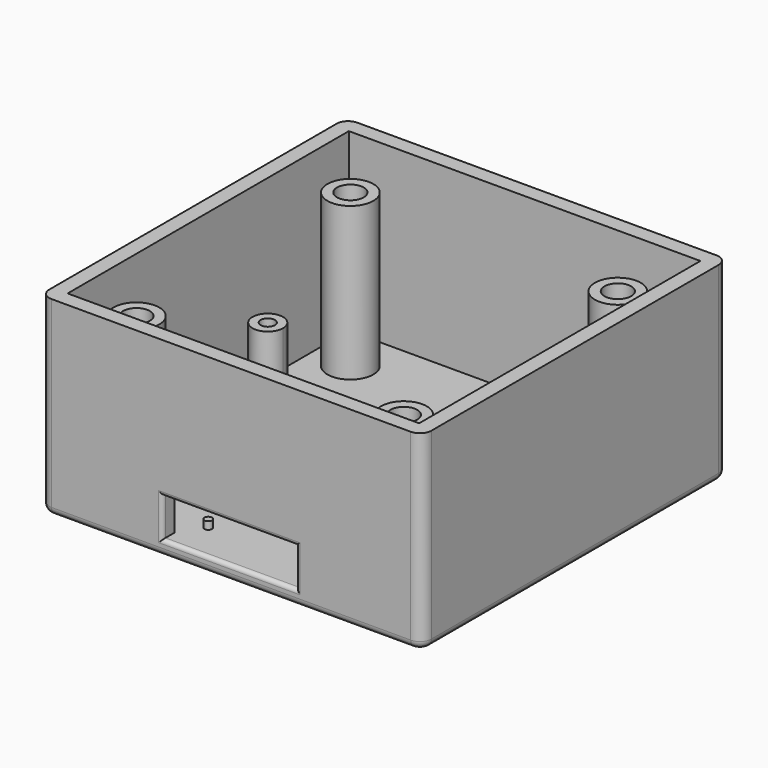
from build123d import *

# Parameters (mm, degrees)
CYLINDER016_R     = 1.75
CYLINDER016_DEPTH = 22
CYLINDER017_R     = 3
CYLINDER017_DEPTH = 22
CYLINDER015_R     = 1.75
CYLINDER015_DEPTH = 22
CYLINDER014_R     = 3
CYLINDER014_DEPTH = 22
CYLINDER013_R     = 1.75
CYLINDER013_DEPTH = 22
CYLINDER012_R     = 3
CYLINDER012_DEPTH = 22
CYLINDER011_R     = 1.75
CYLINDER011_DEPTH = 22
CYLINDER010_R     = 3
CYLINDER010_DEPTH = 22
CYLINDER009_R     = 0.5
CYLINDER009_DEPTH = 2
CYLINDER008_R     = 0.5
CYLINDER008_DEPTH = 2
BOX002_W          = 17.5
BOX002_H          = 10
BOX002_DEPTH      = 5
CYLINDER006_R     = 0.93
CYLINDER006_DEPTH = 10
CYLINDER007_R     = 2
CYLINDER007_DEPTH = 10
CYLINDER005_R     = 0.93
CYLINDER005_DEPTH = 10
CYLINDER004_R     = 2
CYLINDER004_DEPTH = 10
CYLINDER003_R     = 0.93
CYLINDER003_DEPTH = 10
CYLINDER002_R     = 2
CYLINDER002_DEPTH = 10
CYLINDER001_R     = 0.93
CYLINDER001_DEPTH = 10
CYLINDER_R        = 2
CYLINDER_DEPTH    = 10
BOX001_W          = 46
BOX001_H          = 46
BOX001_DEPTH      = 25
BOX_W             = 50
BOX_H             = 50
BOX_DEPTH         = 25
FILLET_R          = 1.5
FILLET001_R       = 1
FILLET002_R       = 0.5


with BuildPart() as cylinder008:
    # Cylinder016 → Cylinder016 (new body)
    with BuildSketch(Plane.XY):
        Circle(CYLINDER016_R)
    extrude(amount=CYLINDER016_DEPTH)


with BuildPart() as cut008:
    # Cylinder017 → Cylinder017 (new body)
    with BuildSketch(Plane.XY):
        Circle(CYLINDER017_R)
    extrude(amount=CYLINDER017_DEPTH)

    # Cut008: cut Cylinder008
    add(cylinder008.part, mode=Mode.SUBTRACT)


with BuildPart() as cut008_1:
    # Cut008 placement: moved
    add(cut008.part.moved(Location((41, 35, 0))))


with BuildPart() as cylinder007:
    # Cylinder015 → Cylinder015 (new body)
    with BuildSketch(Plane.XY):
        Circle(CYLINDER015_R)
    extrude(amount=CYLINDER015_DEPTH)


with BuildPart() as fusion007:
    # Cylinder014 → Cylinder014 (new body)
    with BuildSketch(Plane.XY):
        Circle(CYLINDER014_R)
    extrude(amount=CYLINDER014_DEPTH)

    # Cut009: cut Cylinder007
    add(cylinder007.part, mode=Mode.SUBTRACT)


with BuildPart() as fusion007_1:
    # Cut009 placement: moved
    add(fusion007.part.moved(Location((6, 35, 0))))

    # Fusion007: union Cut008
    add(cut008_1.part)


with BuildPart() as fusion007_2:
    # Fusion007 placement: moved
    add(fusion007_1.part.moved(Location((0, -35, 0))))


with BuildPart() as cylinder005:
    # Cylinder013 → Cylinder013 (new body)
    with BuildSketch(Plane.XY):
        Circle(CYLINDER013_R)
    extrude(amount=CYLINDER013_DEPTH)


with BuildPart() as cut007:
    # Cylinder012 → Cylinder012 (new body)
    with BuildSketch(Plane.XY):
        Circle(CYLINDER012_R)
    extrude(amount=CYLINDER012_DEPTH)

    # Cut007: cut Cylinder005
    add(cylinder005.part, mode=Mode.SUBTRACT)


with BuildPart() as cut007_1:
    # Cut007 placement: moved
    add(cut007.part.moved(Location((41, 35, 0))))


with BuildPart() as cylinder003:
    # Cylinder011 → Cylinder011 (new body)
    with BuildSketch(Plane.XY):
        Circle(CYLINDER011_R)
    extrude(amount=CYLINDER011_DEPTH)


with BuildPart() as pcb_platform:
    # Cylinder010 → Cylinder010 (new body)
    with BuildSketch(Plane.XY):
        Circle(CYLINDER010_R)
    extrude(amount=CYLINDER010_DEPTH)

    # Cut006: cut Cylinder003
    add(cylinder003.part, mode=Mode.SUBTRACT)


with BuildPart() as pcb_platform_1:
    # Cut006 placement: moved
    add(pcb_platform.part.moved(Location((6, 35, 0))))

    # Fusion005: union Cut007
    add(cut007_1.part)

    # Fusion008: union Fusion007
    add(fusion007_2.part)


with BuildPart() as pcb_platform_2:
    # Fusion008 placement: moved
    add(pcb_platform_1.part.moved(Location((1, 7, 0))))


with BuildPart() as cylinder001:
    # Cylinder009 → Cylinder009 (new body)
    with BuildSketch(Plane(origin=(13.5, 0, 0), x_dir=(1, 0, 0), z_dir=(0, 0, 1))):
        Circle(CYLINDER009_R)
    extrude(amount=CYLINDER009_DEPTH)


with BuildPart() as fusion004:
    # Cylinder008 → Cylinder008 (new body)
    with BuildSketch(Plane.XY):
        Circle(CYLINDER008_R)
    extrude(amount=CYLINDER008_DEPTH)

    # Fusion004: union Cylinder001
    add(cylinder001.part)


with BuildPart() as fusion004_1:
    # Fusion004 placement: moved
    add(fusion004.part.moved(Location((18, 5, 1))))


with BuildPart() as cube:
    # Box002 → Box002 (new body)
    with BuildSketch(Plane(origin=(16, 0, 2), x_dir=(1, 0, 0), z_dir=(0, 0, 1))):
        with Locations((8.75, 5)):
            Rectangle(BOX002_W, BOX002_H)
    extrude(amount=BOX002_DEPTH)


with BuildPart() as obj1:
    # Cylinder006 → Cylinder006 (new body)
    with BuildSketch(Plane(origin=(7, 10, 2), x_dir=(1, 0, 0), z_dir=(0, 0, 1))):
        Circle(CYLINDER006_R)
    extrude(amount=CYLINDER006_DEPTH)


with BuildPart() as obj2:
    # Cylinder007 → Cylinder007 (new body)
    with BuildSketch(Plane(origin=(7, 10, 0), x_dir=(1, 0, 0), z_dir=(0, 0, 1))):
        Circle(CYLINDER007_R)
    extrude(amount=CYLINDER007_DEPTH)

    # Cut004: cut obj1
    add(obj1.part, mode=Mode.SUBTRACT)


with BuildPart() as obj2_1:
    # Cut004 placement: moved
    add(obj2.part.moved(Location((37.64, 14.24, 0))))


with BuildPart() as obj3:
    # Cylinder005 → Cylinder005 (new body)
    with BuildSketch(Plane(origin=(7, 10, 2), x_dir=(1, 0, 0), z_dir=(0, 0, 1))):
        Circle(CYLINDER005_R)
    extrude(amount=CYLINDER005_DEPTH)


with BuildPart() as fusion001:
    # Cylinder004 → Cylinder004 (new body)
    with BuildSketch(Plane(origin=(7, 10, 0), x_dir=(1, 0, 0), z_dir=(0, 0, 1))):
        Circle(CYLINDER004_R)
    extrude(amount=CYLINDER004_DEPTH)

    # Cut003: cut obj3
    add(obj3.part, mode=Mode.SUBTRACT)


with BuildPart() as fusion001_1:
    # Cut003 placement: moved
    add(fusion001.part.moved(Location((37.64, -1, 0))))

    # Fusion001: union obj2
    add(obj2_1.part)


with BuildPart() as obj4:
    # Cylinder003 → Cylinder003 (new body)
    with BuildSketch(Plane(origin=(7, 10, 2), x_dir=(1, 0, 0), z_dir=(0, 0, 1))):
        Circle(CYLINDER003_R)
    extrude(amount=CYLINDER003_DEPTH)


with BuildPart() as obj5:
    # Cylinder002 → Cylinder002 (new body)
    with BuildSketch(Plane(origin=(7, 10, 0), x_dir=(1, 0, 0), z_dir=(0, 0, 1))):
        Circle(CYLINDER002_R)
    extrude(amount=CYLINDER002_DEPTH)

    # Cut002: cut obj4
    add(obj4.part, mode=Mode.SUBTRACT)


with BuildPart() as obj5_1:
    # Cut002 placement: moved
    add(obj5.part.moved(Location((-3, 14.24, 0))))


with BuildPart() as obj6:
    # Cylinder001 → Cylinder001 (new body)
    with BuildSketch(Plane(origin=(7, 10, 2), x_dir=(1, 0, 0), z_dir=(0, 0, 1))):
        Circle(CYLINDER001_R)
    extrude(amount=CYLINDER001_DEPTH)


with BuildPart() as nanoplatform:
    # Cylinder → Cylinder (new body)
    with BuildSketch(Plane(origin=(7, 10, 0), x_dir=(1, 0, 0), z_dir=(0, 0, 1))):
        Circle(CYLINDER_R)
    extrude(amount=CYLINDER_DEPTH)

    # Cut001: cut obj6
    add(obj6.part, mode=Mode.SUBTRACT)


with BuildPart() as nanoplatform_1:
    # Cut001 placement: moved
    add(nanoplatform.part.moved(Location((-3, -1, 0))))

    # Fusion: union obj5
    add(obj5_1.part)

    # Fusion002: union Fusion001
    add(fusion001_1.part)


with BuildPart() as nanoplatform_2:
    # Fusion002 placement: moved
    add(nanoplatform_1.part.moved(Location((0, 8, 0))))


with BuildPart() as obj7:
    # Box001 → Box001 (new body)
    with BuildSketch(Plane(origin=(2, 2, 2), x_dir=(1, 0, 0), z_dir=(0, 0, 1))):
        with Locations((23, 23)):
            Rectangle(BOX001_W, BOX001_H)
    extrude(amount=BOX001_DEPTH)


with BuildPart() as fillet002:
    # Box → Box (new body)
    with BuildSketch(Plane.XY):
        with Locations((25, 25)):
            Rectangle(BOX_W, BOX_H)
    extrude(amount=BOX_DEPTH)

    # Cut: cut obj7
    add(obj7.part, mode=Mode.SUBTRACT)

    # Fusion003: union NanoPlatform
    add(nanoplatform_2.part)

    # Cut005: cut Cube
    add(cube.part, mode=Mode.SUBTRACT)

    # Fusion006: union Fusion004
    add(fusion004_1.part)

    # Fusion009: union PCB_Platform
    add(pcb_platform_2.part)

    # Fillet
    fillet_edges = [fillet002.edges().sort_by_distance(p)[0] for p in [
        (0, 0, 12.5),
        (0, 50, 12.5),
        (50, 0, 12.5),
        (50, 50, 12.5),
    ]]
    fillet(fillet_edges, radius=FILLET_R)

    # Fillet001
    fillet001_edges = [fillet002.edges().sort_by_distance(p)[0] for p in [
        (0, 25, 0),
        (0.43934, 0.43934, 0),
        (0.43934, 49.56066, 0),
        (25, 0, 0),
        (25, 50, 0),
        (49.56066, 0.43934, 0),
        (49.56066, 49.56066, 0),
        (50, 25, 0),
    ]]
    fillet(fillet001_edges, radius=FILLET001_R)

    # Fillet002
    fillet002_edges = [fillet002.edges().sort_by_distance(p)[0] for p in [
        (24.75, 0, 7),
        (33.5, 0, 4.5),
        (24.75, 0, 2),
        (16, 0, 4.5),
    ]]
    fillet(fillet002_edges, radius=FILLET002_R)


solid = fillet002.part
